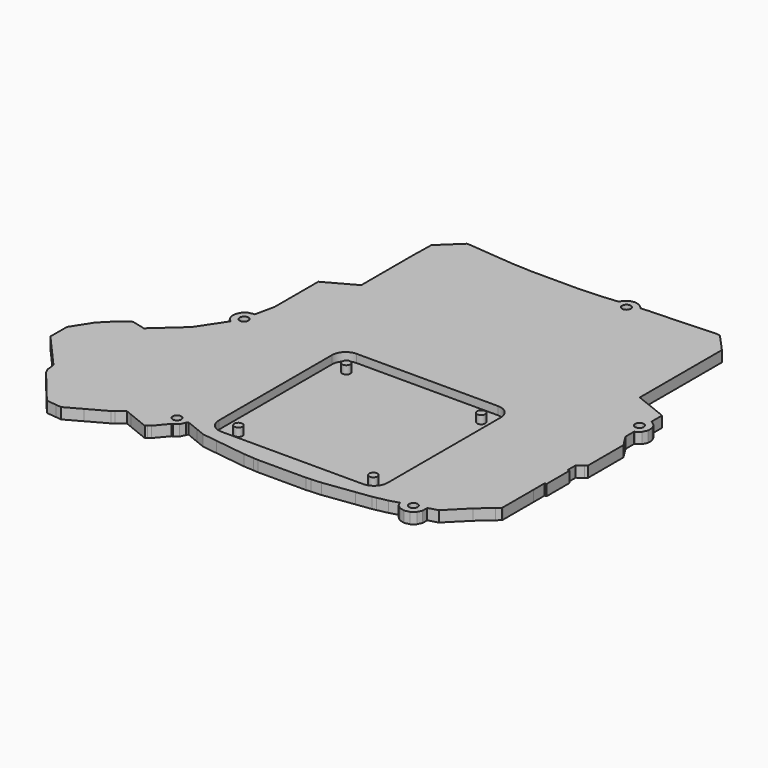
from build123d import *

# Parameters (mm, degrees)
PAD_DEPTH             = 4
SKETCH001_W           = 62
SKETCH001_H           = 62
POCKET_DEPTH          = 3
SKETCH002_R           = 1.5
PAD001_DEPTH          = 3
SKETCH003_R           = 1.5875
POCKET001_DEPTH       = 4.001
FILLET_R              = 5
CLONE_PLACEMENT_ANGLE = 90


with BuildPart() as part:
    # Sketch → Pad (new body)
    with BuildSketch(Plane.XY):
        with BuildLine():
            add(Edge.make_bspline(
                [(7.110538, 123.355855), (7.531138, 121.513255)],
                knots=[0, 0, 1.889994, 1.889994], degree=1))
            add(Edge.make_bspline(
                [(7.531138, 121.513255), (7.531938, 121.509855)],
                knots=[0, 0, 0.003493, 0.003493], degree=1))
            add(Edge.make_bspline(
                [(7.531938, 121.509855), (7.534138, 121.507055)],
                knots=[0, 0, 0.003561, 0.003561], degree=1))
            add(Edge.make_bspline(
                [(7.534138, 121.507055), (8.712538, 120.029355)],
                knots=[0, 0, 1.890033, 1.890033], degree=1))
            add(Edge.make_bspline(
                [(8.712538, 120.029355), (9.780338, 119.515155)],
                knots=[0, 0, 1.185158, 1.185158], degree=1))
            add(Edge.make_bspline(
                [(9.780338, 119.515155), (10.374038, 112.923715)],
                knots=[0, 0, 6.618124, 6.618124], degree=1))
            add(Edge.make_bspline(
                [(10.374038, 112.923715), (10.634538, 107.230525)],
                knots=[0, 0, 5.699147, 5.699147], degree=1))
            add(Edge.make_bspline(
                [(10.634538, 107.230525), (10.713338, 105.508755)],
                knots=[0, 0, 1.723572, 1.723572], degree=1))
            add(Edge.make_bspline(
                [(10.713338, 105.508755), (10.713338, 88.308755)],
                knots=[0, 0, 17.2, 17.2], degree=1))
            add(Edge.make_bspline(
                [(10.713338, 88.308755), (10.634538, 86.586955)],
                knots=[0, 0, 1.723602, 1.723602], degree=1))
            add(Edge.make_bspline(
                [(10.634538, 86.586955), (10.374038, 80.893755)],
                knots=[0, 0, 5.699157, 5.699157], degree=1))
            add(Edge.make_bspline(
                [(10.374038, 80.893755), (8.864238, 64.131755)],
                knots=[0, 0, 16.829859, 16.829859], degree=1))
            add(Edge.make_bspline(
                [(8.864238, 64.131755), (8.851738, 63.596955)],
                knots=[0, 0, 0.534946, 0.534946], degree=1))
            add(Edge.make_bspline(
                [(8.851738, 63.596955), (8.842238, 63.187555)],
                knots=[0, 0, 0.40951, 0.40951], degree=1))
            add(Edge.make_bspline(
                [(8.842238, 63.187555), (8.840038, 63.093355)],
                knots=[0, 0, 0.094226, 0.094226], degree=1))
            add(Edge.make_bspline(
                [(8.840038, 63.093355), (8.847938, 63.068955)],
                knots=[0, 0, 0.025647, 0.025647], degree=1))
            add(Edge.make_bspline(
                [(8.847938, 63.068955), (8.864238, 63.018755)],
                knots=[0, 0, 0.05278, 0.05278], degree=1))
            add(Edge.make_bspline(
                [(8.864238, 63.018755), (10.908138, 60.863055)],
                knots=[0, 0, 2.970618, 2.970618], degree=1))
            add(Edge.make_bspline(
                [(10.908138, 60.863055), (15.891038, 55.607755)],
                knots=[0, 0, 7.242063, 7.242063], degree=1))
            add(Edge.make_bspline(
                [(15.891038, 55.607755), (15.911038, 55.607255)],
                knots=[0, 0, 0.020006, 0.020006], degree=1))
            add(Edge.make_bspline(
                [(15.911038, 55.607255), (15.991338, 55.605355)],
                knots=[0, 0, 0.080322, 0.080322], degree=1))
            add(Edge.make_bspline(
                [(15.991338, 55.605355), (18.367238, 55.549955)],
                knots=[0, 0, 2.376546, 2.376546], degree=1))
            add(Edge.make_bspline(
                [(18.367238, 55.549955), (23.674038, 55.425955)],
                knots=[0, 0, 5.308249, 5.308249], degree=1))
            add(Edge.make_bspline(
                [(23.674038, 55.425955), (33.191938, 55.425955)],
                knots=[0, 0, 9.5179, 9.5179], degree=1))
            add(Edge.make_bspline(
                [(33.191938, 55.425955), (33.548038, 55.425955)],
                knots=[0, 0, 0.3561, 0.3561], degree=1))
            add(Edge.make_bspline(
                [(33.548038, 55.425955), (33.643538, 55.425955)],
                knots=[0, 0, 0.0955, 0.0955], degree=1))
            add(Edge.make_bspline(
                [(33.643538, 55.425955), (37.838738, 55.425955)],
                knots=[0, 0, 4.1952, 4.1952], degree=1))
            add(Edge.make_bspline(
                [(37.838738, 55.425955), (39.979838, 55.425955)],
                knots=[0, 0, 2.1411, 2.1411], degree=1))
            add(Edge.make_bspline(
                [(39.979838, 55.425955), (40.088438, 55.425955)],
                knots=[0, 0, 0.1086, 0.1086], degree=1))
            add(Edge.make_bspline(
                [(40.088438, 55.425955), (47.880938, 55.425955)],
                knots=[0, 0, 7.7925, 7.7925], degree=1))
            add(Edge.make_bspline(
                [(47.880938, 55.425955), (50.274438, 51.072955)],
                knots=[0, 0, 4.96764, 4.96764], degree=1))
            add(Edge.make_bspline(
                [(50.274438, 51.072955), (53.904838, 44.470155)],
                knots=[0, 0, 7.535036, 7.535036], degree=1))
            add(Edge.make_bspline(
                [(53.904838, 44.470155), (65.142358, 44.470155)],
                knots=[0, 0, 11.23752, 11.23752], degree=1))
            add(Edge.make_bspline(
                [(65.142358, 44.470155), (65.195378, 44.470155)],
                knots=[0, 0, 0.05302, 0.05302], degree=1))
            add(Edge.make_bspline(
                [(65.195378, 44.470155), (73.996138, 44.470155)],
                knots=[0, 0, 8.80076, 8.80076], degree=1))
            add(Edge.make_bspline(
                [(73.996138, 44.470155), (81.180738, 42.906055)],
                knots=[0, 0, 7.352883, 7.352883], degree=1))
            add(Edge.make_bspline(
                [(81.180738, 42.906055), (81.101938, 42.560655)],
                knots=[0, 0, 0.354275, 0.354275], degree=1))
            add(Edge.make_bspline(
                [(81.101938, 42.560655), (81.522538, 40.717955)],
                knots=[0, 0, 1.890092, 1.890092], degree=1))
            add(Edge.make_bspline(
                [(81.522538, 40.717955), (81.523338, 40.714555)],
                knots=[0, 0, 0.003493, 0.003493], degree=1))
            add(Edge.make_bspline(
                [(81.523338, 40.714555), (81.525438, 40.711755)],
                knots=[0, 0, 0.0035, 0.0035], degree=1))
            add(Edge.make_bspline(
                [(81.525438, 40.711755), (82.703938, 39.234055)],
                knots=[0, 0, 1.890095, 1.890095], degree=1))
            add(Edge.make_bspline(
                [(82.703938, 39.234055), (84.406838, 38.413955)],
                knots=[0, 0, 1.890088, 1.890088], degree=1))
            add(Edge.make_bspline(
                [(84.406838, 38.413955), (84.409938, 38.412455)],
                knots=[0, 0, 0.003444, 0.003444], degree=1))
            add(Edge.make_bspline(
                [(84.409938, 38.412455), (86.303538, 38.412455)],
                knots=[0, 0, 1.8936, 1.8936], degree=1))
            add(Edge.make_bspline(
                [(86.303538, 38.412455), (86.306638, 38.413955)],
                knots=[0, 0, 0.003444, 0.003444], degree=1))
            add(Edge.make_bspline(
                [(86.306638, 38.413955), (88.009538, 39.234055)],
                knots=[0, 0, 1.890088, 1.890088], degree=1))
            add(Edge.make_bspline(
                [(88.009538, 39.234055), (88.797338, 40.221955)],
                knots=[0, 0, 1.263557, 1.263557], degree=1))
            add(Edge.make_bspline(
                [(88.797338, 40.221955), (91.676138, 38.301355)],
                knots=[0, 0, 3.460664, 3.460664], degree=1))
            add(Edge.make_bspline(
                [(91.676138, 38.301355), (91.676438, 38.301155)],
                knots=[0, 0, 0.000361, 0.000361], degree=1))
            add(Edge.make_bspline(
                [(91.676438, 38.301155), (98.560638, 33.708255)],
                knots=[0, 0, 8.275684, 8.275684], degree=1))
            add(Edge.make_bspline(
                [(98.560638, 33.708255), (103.600938, 28.110455)],
                knots=[0, 0, 7.532595, 7.532595], degree=1))
            add(Edge.make_bspline(
                [(103.600938, 28.110455), (103.601238, 28.110255)],
                knots=[0, 0, 0.000361, 0.000361], degree=1))
            add(Edge.make_bspline(
                [(103.601238, 28.110255), (107.760738, 23.490555)],
                knots=[0, 0, 6.216355, 6.216355], degree=1))
            add(Edge.make_bspline(
                [(107.760738, 23.490555), (107.450938, 22.284955)],
                knots=[0, 0, 1.244768, 1.244768], degree=1))
            add(Edge.make_bspline(
                [(107.450938, 22.284955), (106.493138, 18.558055)],
                knots=[0, 0, 3.848008, 3.848008], degree=1))
            add(Edge.make_bspline(
                [(106.493138, 18.558055), (108.480938, 15.822055)],
                knots=[0, 0, 3.38187, 3.38187], degree=1))
            add(Edge.make_bspline(
                [(108.480938, 15.822055), (108.481138, 15.821855)],
                knots=[0, 0, 0.000283, 0.000283], degree=1))
            add(Edge.make_bspline(
                [(108.481138, 15.821855), (109.226138, 14.796355)],
                knots=[0, 0, 1.267547, 1.267547], degree=1))
            add(Edge.make_bspline(
                [(109.226138, 14.796355), (111.227638, 12.786255)],
                knots=[0, 0, 2.836636, 2.836636], degree=1))
            add(Edge.make_bspline(
                [(111.227638, 12.786255), (113.637538, 10.365855)],
                knots=[0, 0, 3.415546, 3.415546], degree=1))
            add(Edge.make_bspline(
                [(113.637538, 10.365855), (117.364938, 7.976755)],
                knots=[0, 0, 4.427337, 4.427337], degree=1))
            add(Edge.make_bspline(
                [(117.364938, 7.976755), (120.793238, 5.778755)],
                knots=[0, 0, 4.0724, 4.0724], degree=1))
            add(Edge.make_bspline(
                [(120.793238, 5.778755), (120.831738, 5.754755)],
                knots=[0, 0, 0.045368, 0.045368], degree=1))
            add(Edge.make_bspline(
                [(120.831738, 5.754755), (126.720038, 5.726755)],
                knots=[0, 0, 5.888367, 5.888367], degree=1))
            add(Edge.make_bspline(
                [(126.720038, 5.726755), (128.418238, 5.718755)],
                knots=[0, 0, 1.698219, 1.698219], degree=1))
            add(Edge.make_bspline(
                [(128.418238, 5.718755), (128.495338, 5.786755)],
                knots=[0, 0, 0.102803, 0.102803], degree=1))
            add(Edge.make_bspline(
                [(128.495338, 5.786755), (132.141338, 9.010355)],
                knots=[0, 0, 4.866715, 4.866715], degree=1))
            add(Edge.make_bspline(
                [(132.141338, 9.010355), (141.762838, 17.517555)],
                knots=[0, 0, 12.843119, 12.843119], degree=1))
            add(Edge.make_bspline(
                [(141.762838, 17.517555), (144.863938, 17.858155)],
                knots=[0, 0, 3.119748, 3.119748], degree=1))
            add(Edge.make_bspline(
                [(144.863938, 17.858155), (146.694138, 18.751855)],
                knots=[0, 0, 2.036745, 2.036745], degree=1))
            add(Edge.make_bspline(
                [(146.694138, 18.751855), (146.720938, 18.773855)],
                knots=[0, 0, 0.034673, 0.034673], degree=1))
            add(Edge.make_bspline(
                [(146.720938, 18.773855), (160.108538, 29.768355)],
                knots=[0, 0, 17.323593, 17.323593], degree=1))
            add(Edge.make_bspline(
                [(160.108538, 29.768355), (160.164538, 29.814255)],
                knots=[0, 0, 0.072407, 0.072407], degree=1))
            add(Edge.make_bspline(
                [(160.164538, 29.814255), (160.533438, 33.392555)],
                knots=[0, 0, 3.597265, 3.597265], degree=1))
            add(Edge.make_bspline(
                [(160.533438, 33.392555), (160.752238, 35.514855)],
                knots=[0, 0, 2.133549, 2.133549], degree=1))
            add(Edge.make_bspline(
                [(160.752238, 35.514855), (160.692538, 35.623155)],
                knots=[0, 0, 0.123665, 0.123665], degree=1))
            add(Edge.make_bspline(
                [(160.692538, 35.623155), (157.517238, 41.382555)],
                knots=[0, 0, 6.576718, 6.576718], degree=1))
            add(Edge.make_bspline(
                [(157.517238, 41.382555), (153.743038, 48.228155)],
                knots=[0, 0, 7.817085, 7.817085], degree=1))
            add(Edge.make_bspline(
                [(153.743038, 48.228155), (153.038038, 49.130555)],
                knots=[0, 0, 1.145142, 1.145142], degree=1))
            add(Edge.make_bspline(
                [(153.038038, 49.130555), (150.939738, 51.816255)],
                knots=[0, 0, 3.408203, 3.408203], degree=1))
            add(Edge.make_bspline(
                [(150.939738, 51.816255), (151.876838, 54.152755)],
                knots=[0, 0, 2.517417, 2.517417], degree=1))
            add(Edge.make_bspline(
                [(151.876838, 54.152755), (154.819138, 61.488255)],
                knots=[0, 0, 7.903587, 7.903587], degree=1))
            add(Edge.make_bspline(
                [(154.819138, 61.488255), (154.299338, 62.122055)],
                knots=[0, 0, 0.819692, 0.819692], degree=1))
            add(Edge.make_bspline(
                [(154.299338, 62.122055), (154.299338, 62.122155)],
                knots=[0, 0, 0.0001, 0.0001], degree=1))
            add(Edge.make_bspline(
                [(154.299338, 62.122155), (153.563238, 63.019755)],
                knots=[0, 0, 1.160831, 1.160831], degree=1))
            add(Edge.make_bspline(
                [(153.563238, 63.019755), (149.287638, 66.607355)],
                knots=[0, 0, 5.581364, 5.581364], degree=1))
            add(Edge.make_bspline(
                [(149.287638, 66.607355), (149.169038, 66.706855)],
                knots=[0, 0, 0.15481, 0.15481], degree=1))
            add(Edge.make_bspline(
                [(149.169038, 66.706855), (149.065738, 67.159455)],
                knots=[0, 0, 0.464239, 0.464239], degree=1))
            add(Edge.make_bspline(
                [(149.065738, 67.159455), (149.065038, 67.162855)],
                knots=[0, 0, 0.003471, 0.003471], degree=1))
            add(Edge.make_bspline(
                [(149.065038, 67.162855), (149.062838, 67.165555)],
                knots=[0, 0, 0.003483, 0.003483], degree=1))
            add(Edge.make_bspline(
                [(149.062838, 67.165555), (147.884338, 68.643355)],
                knots=[0, 0, 1.890173, 1.890173], degree=1))
            add(Edge.make_bspline(
                [(147.884338, 68.643355), (146.181438, 69.463355)],
                knots=[0, 0, 1.890045, 1.890045], degree=1))
            add(Edge.make_bspline(
                [(146.181438, 69.463355), (146.178338, 69.464955)],
                knots=[0, 0, 0.003489, 0.003489], degree=1))
            add(Edge.make_bspline(
                [(146.178338, 69.464955), (145.882138, 69.464955)],
                knots=[0, 0, 0.2962, 0.2962], degree=1))
            add(Edge.make_bspline(
                [(145.882138, 69.464955), (145.309738, 69.945255)],
                knots=[0, 0, 0.747215, 0.747215], degree=1))
            add(Edge.make_bspline(
                [(145.309738, 69.945255), (147.201538, 74.641255)],
                knots=[0, 0, 5.062739, 5.062739], degree=1))
            add(Edge.make_bspline(
                [(147.201538, 74.641255), (148.510538, 77.890355)],
                knots=[0, 0, 3.502875, 3.502875], degree=1))
            add(Edge.make_bspline(
                [(148.510538, 77.890355), (149.239338, 83.329855)],
                knots=[0, 0, 5.488106, 5.488106], degree=1))
            add(Edge.make_bspline(
                [(149.239338, 83.329855), (150.762238, 94.697455)],
                knots=[0, 0, 11.469157, 11.469157], degree=1))
            add(Edge.make_bspline(
                [(150.762238, 94.697455), (151.005438, 98.391255)],
                knots=[0, 0, 3.701797, 3.701797], degree=1))
            add(Edge.make_bspline(
                [(151.005438, 98.391255), (151.121738, 100.158755)],
                knots=[0, 0, 1.771322, 1.771322], degree=1))
            add(Edge.make_bspline(
                [(151.121738, 100.158755), (151.121738, 117.658755)],
                knots=[0, 0, 17.5, 17.5], degree=1))
            add(Edge.make_bspline(
                [(151.121738, 117.658755), (151.005438, 119.426255)],
                knots=[0, 0, 1.771322, 1.771322], degree=1))
            add(Edge.make_bspline(
                [(151.005438, 119.426255), (150.762238, 123.120055)],
                knots=[0, 0, 3.701797, 3.701797], degree=1))
            add(Edge.make_bspline(
                [(150.762238, 123.120055), (149.239338, 134.487655)],
                knots=[0, 0, 11.469157, 11.469157], degree=1))
            add(Edge.make_bspline(
                [(149.239338, 134.487655), (148.510538, 139.927155)],
                knots=[0, 0, 5.488106, 5.488106], degree=1))
            add(Edge.make_bspline(
                [(148.510538, 139.927155), (148.222738, 141.316955)],
                knots=[0, 0, 1.419286, 1.419286], degree=1))
            add(Edge.make_bspline(
                [(148.222738, 141.316955), (147.456538, 145.016255)],
                knots=[0, 0, 3.777815, 3.777815], degree=1))
            add(Edge.make_bspline(
                [(147.456538, 145.016255), (146.454938, 148.485855)],
                knots=[0, 0, 3.611278, 3.611278], degree=1))
            add(Edge.make_bspline(
                [(146.454938, 148.485855), (147.884338, 149.174155)],
                knots=[0, 0, 1.586487, 1.586487], degree=1))
            add(Edge.make_bspline(
                [(147.884338, 149.174155), (149.062838, 150.651955)],
                knots=[0, 0, 1.890173, 1.890173], degree=1))
            add(Edge.make_bspline(
                [(149.062838, 150.651955), (149.065038, 150.654655)],
                knots=[0, 0, 0.003483, 0.003483], degree=1))
            add(Edge.make_bspline(
                [(149.065038, 150.654655), (149.065738, 150.658055)],
                knots=[0, 0, 0.003471, 0.003471], degree=1))
            add(Edge.make_bspline(
                [(149.065738, 150.658055), (149.486338, 152.500755)],
                knots=[0, 0, 1.890092, 1.890092], degree=1))
            add(Edge.make_bspline(
                [(149.486338, 152.500755), (149.065738, 154.343455)],
                knots=[0, 0, 1.890092, 1.890092], degree=1))
            add(Edge.make_bspline(
                [(149.065738, 154.343455), (149.065038, 154.346855)],
                knots=[0, 0, 0.003471, 0.003471], degree=1))
            add(Edge.make_bspline(
                [(149.065038, 154.346855), (149.062838, 154.349555)],
                knots=[0, 0, 0.003483, 0.003483], degree=1))
            add(Edge.make_bspline(
                [(149.062838, 154.349555), (147.884338, 155.827255)],
                knots=[0, 0, 1.890095, 1.890095], degree=1))
            add(Edge.make_bspline(
                [(147.884338, 155.827255), (146.181438, 156.647355)],
                knots=[0, 0, 1.890088, 1.890088], degree=1))
            add(Edge.make_bspline(
                [(146.181438, 156.647355), (146.178338, 156.648855)],
                knots=[0, 0, 0.003444, 0.003444], degree=1))
            add(Edge.make_bspline(
                [(146.178338, 156.648855), (144.284738, 156.648855)],
                knots=[0, 0, 1.8936, 1.8936], degree=1))
            add(Edge.make_bspline(
                [(144.284738, 156.648855), (144.281638, 156.647355)],
                knots=[0, 0, 0.003444, 0.003444], degree=1))
            add(Edge.make_bspline(
                [(144.281638, 156.647355), (144.121238, 156.570055)],
                knots=[0, 0, 0.178055, 0.178055], degree=1))
            add(Edge.make_bspline(
                [(144.121238, 156.570055), (143.106538, 160.085155)],
                knots=[0, 0, 3.658626, 3.658626], degree=1))
            add(Edge.make_bspline(
                [(143.106538, 160.085155), (136.106538, 167.085155)],
                knots=[0, 0, 9.899495, 9.899495], degree=1))
            add(Edge.make_bspline(
                [(136.106538, 167.085155), (131.835938, 171.928755)],
                knots=[0, 0, 6.457436, 6.457436], degree=1))
            add(Edge.make_bspline(
                [(131.835938, 171.928755), (130.585238, 173.347355)],
                knots=[0, 0, 1.89121, 1.89121], degree=1))
            add(Edge.make_bspline(
                [(130.585238, 173.347355), (130.317338, 173.347355)],
                knots=[0, 0, 0.2679, 0.2679], degree=1))
            add(Edge.make_bspline(
                [(130.317338, 173.347355), (130.317338, 173.353055)],
                knots=[0, 0, 0.0057, 0.0057], degree=1))
            add(Edge.make_bspline(
                [(130.317338, 173.353055), (116.217338, 173.353055)],
                knots=[0, 0, 14.1, 14.1], degree=1))
            add(Edge.make_bspline(
                [(116.217338, 173.353055), (116.217338, 173.347355)],
                knots=[0, 0, 0.0057, 0.0057], degree=1))
            add(Edge.make_bspline(
                [(116.217338, 173.347355), (115.583838, 173.347355)],
                knots=[0, 0, 0.6335, 0.6335], degree=1))
            add(Edge.make_bspline(
                [(115.583838, 173.347355), (114.897638, 173.347355)],
                knots=[0, 0, 0.6862, 0.6862], degree=1))
            add(Edge.make_bspline(
                [(114.897638, 173.347355), (114.876138, 173.347355)],
                knots=[0, 0, 0.0215, 0.0215], degree=1))
            add(Edge.make_bspline(
                [(114.876138, 173.347355), (112.510638, 173.347355)],
                knots=[0, 0, 2.3655, 2.3655], degree=1))
            add(Edge.make_bspline(
                [(112.510638, 173.347355), (111.085738, 173.347355)],
                knots=[0, 0, 1.4249, 1.4249], degree=1))
            add(Edge.make_bspline(
                [(111.085738, 173.347355), (111.085738, 174.033055)],
                knots=[0, 0, 0.6857, 0.6857], degree=1))
            add(Edge.make_bspline(
                [(111.085738, 174.033055), (100.585738, 174.033055)],
                knots=[0, 0, 10.5, 10.5], degree=1))
            add(Edge.make_bspline(
                [(100.585738, 174.033055), (100.585738, 173.347355)],
                knots=[0, 0, 0.6857, 0.6857], degree=1))
            add(Edge.make_bspline(
                [(100.585738, 173.347355), (96.852338, 173.347355)],
                knots=[0, 0, 3.7334, 3.7334], degree=1))
            add(Edge.make_bspline(
                [(96.852338, 173.347355), (95.378938, 175.389255)],
                knots=[0, 0, 2.517988, 2.517988], degree=1))
            add(Edge.make_bspline(
                [(95.378938, 175.389255), (94.817438, 176.167355)],
                knots=[0, 0, 0.959543, 0.959543], degree=1))
            add(Edge.make_bspline(
                [(94.817438, 176.167355), (94.786638, 176.167355)],
                knots=[0, 0, 0.0308, 0.0308], degree=1))
            add(Edge.make_bspline(
                [(94.786638, 176.167355), (88.225638, 176.167355)],
                knots=[0, 0, 6.561, 6.561], degree=1))
            add(Edge.make_bspline(
                [(88.225638, 176.167355), (88.178338, 176.167355)],
                knots=[0, 0, 0.0473, 0.0473], degree=1))
            add(Edge.make_bspline(
                [(88.178338, 176.167355), (78.466838, 176.167355)],
                knots=[0, 0, 9.7115, 9.7115], degree=1))
            add(Edge.make_bspline(
                [(78.466838, 176.167355), (76.866318, 175.157755)],
                knots=[0, 0, 1.892342, 1.892342], degree=1))
            add(Edge.make_bspline(
                [(76.866318, 175.157755), (73.996138, 173.347355)],
                knots=[0, 0, 3.393447, 3.393447], degree=1))
            add(Edge.make_bspline(
                [(73.996138, 173.347355), (69.976598, 173.347355)],
                knots=[0, 0, 4.01954, 4.01954], degree=1))
            add(Edge.make_bspline(
                [(69.976598, 173.347355), (69.894288, 173.707955)],
                knots=[0, 0, 0.369875, 0.369875], degree=1))
            add(Edge.make_bspline(
                [(69.894288, 173.707955), (69.893508, 173.711355)],
                knots=[0, 0, 0.003488, 0.003488], degree=1))
            add(Edge.make_bspline(
                [(69.893508, 173.711355), (69.891338, 173.714055)],
                knots=[0, 0, 0.003464, 0.003464], degree=1))
            add(Edge.make_bspline(
                [(69.891338, 173.714055), (68.712888, 175.191855)],
                knots=[0, 0, 1.890142, 1.890142], degree=1))
            add(Edge.make_bspline(
                [(68.712888, 175.191855), (67.009989, 176.011855)],
                knots=[0, 0, 1.890044, 1.890044], degree=1))
            add(Edge.make_bspline(
                [(67.009989, 176.011855), (67.006849, 176.013355)],
                knots=[0, 0, 0.00348, 0.00348], degree=1))
            add(Edge.make_bspline(
                [(67.006849, 176.013355), (65.113288, 176.013355)],
                knots=[0, 0, 1.893561, 1.893561], degree=1))
            add(Edge.make_bspline(
                [(65.113288, 176.013355), (65.110148, 176.011855)],
                knots=[0, 0, 0.00348, 0.00348], degree=1))
            add(Edge.make_bspline(
                [(65.110148, 176.011855), (63.407238, 175.191855)],
                knots=[0, 0, 1.890054, 1.890054], degree=1))
            add(Edge.make_bspline(
                [(63.407238, 175.191855), (62.228798, 173.714055)],
                knots=[0, 0, 1.890136, 1.890136], degree=1))
            add(Edge.make_bspline(
                [(62.228798, 173.714055), (62.226628, 173.711355)],
                knots=[0, 0, 0.003464, 0.003464], degree=1))
            add(Edge.make_bspline(
                [(62.226628, 173.711355), (62.225848, 173.707955)],
                knots=[0, 0, 0.003488, 0.003488], degree=1))
            add(Edge.make_bspline(
                [(62.225848, 173.707955), (62.143528, 173.347355)],
                knots=[0, 0, 0.369877, 0.369877], degree=1))
            add(Edge.make_bspline(
                [(62.143528, 173.347355), (57.285638, 173.347355)],
                knots=[0, 0, 4.85789, 4.85789], degree=1))
            add(Edge.make_bspline(
                [(57.285638, 173.347355), (56.988338, 172.684055)],
                knots=[0, 0, 0.72688, 0.72688], degree=1))
            add(Edge.make_bspline(
                [(56.988338, 172.684055), (56.501138, 171.597355)],
                knots=[0, 0, 1.190916, 1.190916], degree=1))
            add(Edge.make_bspline(
                [(56.501138, 171.597355), (53.980438, 165.232055)],
                knots=[0, 0, 6.846238, 6.846238], degree=1))
            add(Edge.make_bspline(
                [(53.980438, 165.232055), (52.442038, 161.347355)],
                knots=[0, 0, 4.178226, 4.178226], degree=1))
            add(Edge.make_bspline(
                [(52.442038, 161.347355), (45.728938, 161.347355)],
                knots=[0, 0, 6.7131, 6.7131], degree=1))
            add(Edge.make_bspline(
                [(45.728938, 161.347355), (35.464238, 161.347355)],
                knots=[0, 0, 10.2647, 10.2647], degree=1))
            add(Edge.make_bspline(
                [(35.464238, 161.347355), (34.113738, 161.347355)],
                knots=[0, 0, 1.3505, 1.3505], degree=1))
            add(Edge.make_bspline(
                [(34.113738, 161.347355), (34.072938, 161.347355)],
                knots=[0, 0, 0.0408, 0.0408], degree=1))
            add(Edge.make_bspline(
                [(34.072938, 161.347355), (32.028238, 161.347355)],
                knots=[0, 0, 2.0447, 2.0447], degree=1))
            add(Edge.make_bspline(
                [(32.028238, 161.347355), (24.597938, 161.347355)],
                knots=[0, 0, 7.4303, 7.4303], degree=1))
            add(Edge.make_bspline(
                [(24.597938, 161.347355), (14.734738, 161.347355)],
                knots=[0, 0, 9.8632, 9.8632], degree=1))
            add(Edge.make_bspline(
                [(14.734738, 161.347355), (10.940338, 157.897855)],
                knots=[0, 0, 5.128013, 5.128013], degree=1))
            add(Edge.make_bspline(
                [(10.940338, 157.897855), (8.066438, 155.285155)],
                knots=[0, 0, 3.884006, 3.884006], degree=1))
            add(Edge.make_bspline(
                [(8.066438, 155.285155), (7.940538, 154.450855)],
                knots=[0, 0, 0.843746, 0.843746], degree=1))
            add(Edge.make_bspline(
                [(7.940538, 154.450855), (7.802238, 153.535155)],
                knots=[0, 0, 0.926085, 0.926085], degree=1))
            add(Edge.make_bspline(
                [(7.802238, 153.535155), (7.804638, 153.487655)],
                knots=[0, 0, 0.047561, 0.047561], degree=1))
            add(Edge.make_bspline(
                [(7.804638, 153.487655), (7.806638, 153.448555)],
                knots=[0, 0, 0.039151, 0.039151], degree=1))
            add(Edge.make_bspline(
                [(7.806638, 153.448555), (8.366338, 142.324555)],
                knots=[0, 0, 11.138072, 11.138072], degree=1))
            add(Edge.make_bspline(
                [(8.366338, 142.324555), (8.556138, 138.552955)],
                knots=[0, 0, 3.776373, 3.776373], degree=1))
            add(Edge.make_bspline(
                [(8.556138, 138.552955), (8.556138, 138.552855)],
                knots=[0, 0, 0.0001, 0.0001], degree=1))
            add(Edge.make_bspline(
                [(8.556138, 138.552855), (8.835238, 130.821755)],
                knots=[0, 0, 7.736136, 7.736136], degree=1))
            add(Edge.make_bspline(
                [(8.835238, 130.821755), (8.842238, 130.627555)],
                knots=[0, 0, 0.194326, 0.194326], degree=1))
            add(Edge.make_bspline(
                [(8.842238, 130.627555), (8.851738, 130.220555)],
                knots=[0, 0, 0.407111, 0.407111], degree=1))
            add(Edge.make_bspline(
                [(8.851738, 130.220555), (8.864238, 129.685755)],
                knots=[0, 0, 0.534946, 0.534946], degree=1))
            add(Edge.make_bspline(
                [(8.864238, 129.685755), (9.117238, 126.877355)],
                knots=[0, 0, 2.819773, 2.819773], degree=1))
            add(Edge.make_bspline(
                [(9.117238, 126.877355), (8.712538, 126.682455)],
                knots=[0, 0, 0.449186, 0.449186], degree=1))
            add(Edge.make_bspline(
                [(8.712538, 126.682455), (7.534138, 125.204755)],
                knots=[0, 0, 1.890033, 1.890033], degree=1))
            add(Edge.make_bspline(
                [(7.534138, 125.204755), (7.531938, 125.201955)],
                knots=[0, 0, 0.003561, 0.003561], degree=1))
            add(Edge.make_bspline(
                [(7.531938, 125.201955), (7.531138, 125.198555)],
                knots=[0, 0, 0.003493, 0.003493], degree=1))
            add(Edge.make_bspline(
                [(7.531138, 125.198555), (7.110538, 123.355855)],
                knots=[0, 0, 1.890092, 1.890092], degree=1))
        make_face()
    extrude(amount=PAD_DEPTH)

    # Sketch001 (on Face195 of Pad) → Pocket (cut)
    with BuildSketch(Plane.XY.offset(4)):
        with Locations((113, 107)):
            Rectangle(SKETCH001_W, SKETCH001_H)
    extrude(amount=-POCKET_DEPTH, mode=Mode.SUBTRACT)

    # Sketch002 (on Face200 of Pocket) → Pad001 (join)
    with BuildSketch(Plane.XY.offset(1)):
        with Locations((88.235, 131.765)):
            Circle(SKETCH002_R)
        with Locations((137.765, 131.765)):
            Circle(SKETCH002_R)
        with Locations((137.765, 82.235)):
            Circle(SKETCH002_R)
        with Locations((88.235, 82.235)):
            Circle(SKETCH002_R)
    extrude(amount=PAD001_DEPTH)

    # Sketch003 → Pocket001 (cut, through all)
    with BuildSketch(Plane.XY):
        with Locations((66.071259, 172.149536)):
            Circle(SKETCH003_R)
        with Locations((145.397964, 152.575211)):
            Circle(SKETCH003_R)
        with Locations((85.315071, 42.353413)):
            Circle(SKETCH003_R)
        with Locations((11.086939, 123.341187)):
            Circle(SKETCH003_R)
        with Locations((145.251533, 65.675183)):
            Circle(SKETCH003_R)
    extrude(amount=POCKET001_DEPTH, mode=Mode.SUBTRACT)

    # Fillet
    fillet_edges = [part.edges().sort_by_distance(p)[0] for p in [
        (144, 138, 2.5),
        (82, 138, 2.5),
        (82, 76, 2.5),
        (144, 76, 2.5),
    ]]
    fillet(fillet_edges, radius=FILLET_R)


with BuildPart() as part_1:
    # Body placement: moved
    add(part.part.moved(Location((-10, -5, -4))))


with BuildPart() as part_2:
    # Clone placement: moved
    add(part_1.part.moved(Location((0.281245, 151.752238, 0))).rotate(Axis((0.281245, 151.752238, 0), (0, 0, -1)), CLONE_PLACEMENT_ANGLE))


solid = part_2.part
